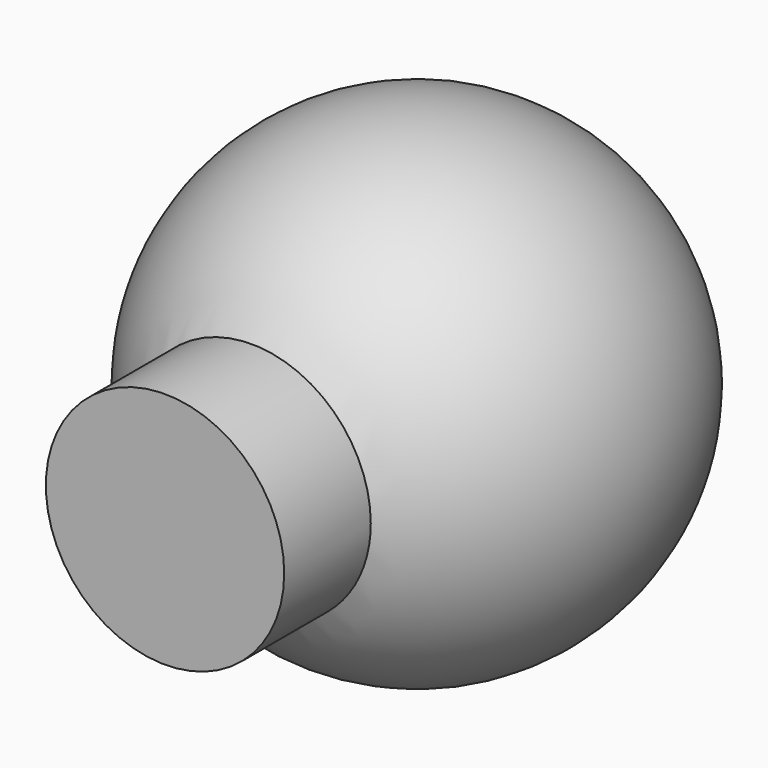
from build123d import *

# Parameters (mm, degrees)
F2_R     = 1.5875
F3_DEPTH = 4.191


with BuildPart() as f1:
    # F0 (on Front) → F1 (revolve)
    with BuildSketch(Plane.XZ):
        with BuildLine():
            Line((3.175, 0), (-3.175, 0))
            ThreePointArc((-3.175, 0), (0, -3.175), (3.175, 0))
        make_face()
    revolve(axis=Axis((0, 0, 0), (-1, 0, 0)))

    # F2 (on Front) → F3 (join)
    with BuildSketch(Plane.XZ):
        Circle(F2_R)
    extrude(amount=F3_DEPTH)


solid = f1.part
